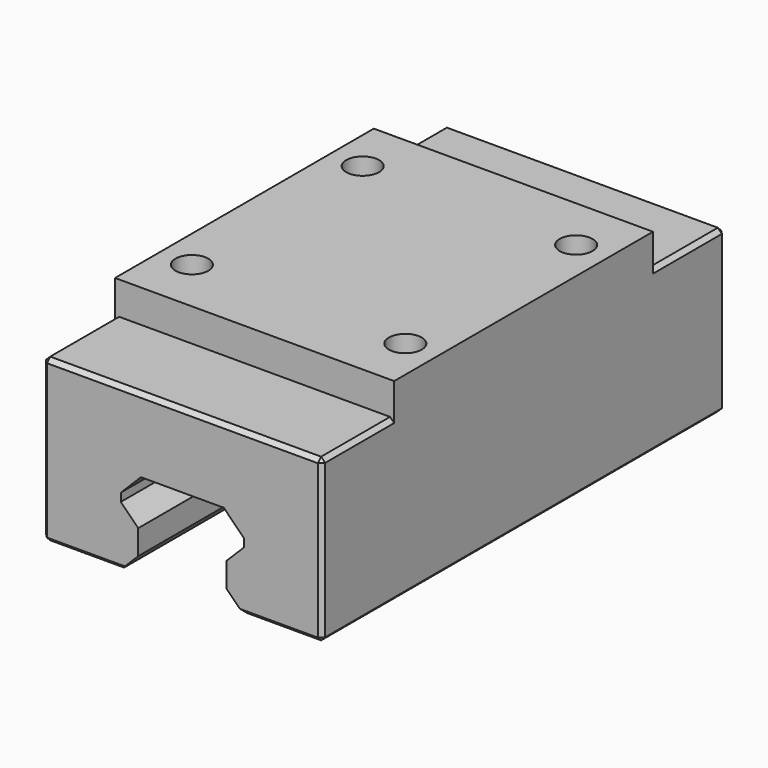
from build123d import *

# Parameters (mm, degrees)
F1_DEPTH = 30.7
F2_R     = 2
F3_DEPTH = 6
F2_W     = 34
F2_H     = 11
F4_DEPTH = 4
F5_SIZE  = 0.5


with BuildPart() as f1:
    # F0 (on Front) → F1 (new body, symmetric)
    with BuildSketch(Plane.XZ):
        Polygon((-17, 0), (-7.5, 0), (-5.3786796564, 2.1213203436), (-5.3786796564, 5.1213203436), (-7.5, 7.2426406871), (-7.5, 8.2426406871), (-5.0426406871, 10.7), (5.0426406871, 10.7), (7.5, 8.2426406871), (7.5, 7.2426406871), (5.3786796564, 5.1213203436), (5.3786796564, 2.1213203436), (7.5, 0), (17, 0), (17, 23.7), (-17, 23.7), align=None)
    extrude(amount=F1_DEPTH, both=True)

    # F2 (on face) → F3 (cut)
    with BuildSketch(Plane.XY.offset(23.7)):
        with Locations((-13, 13)):
            Circle(F2_R)
        with Locations((13, 13)):
            Circle(F2_R)
        with Locations((13, -13)):
            Circle(F2_R)
        with Locations((-13, -13)):
            Circle(F2_R)
    extrude(amount=-F3_DEPTH, mode=Mode.SUBTRACT)

    # F2 (on face) → F4 (cut)
    with BuildSketch(Plane.XY.offset(23.7)):
        with Locations((0, 25.2)):
            Rectangle(F2_W, F2_H)
        with Locations((0, -25.2)):
            Rectangle(F2_W, F2_H)
    extrude(amount=-F4_DEPTH, mode=Mode.SUBTRACT)

    # F5
    f5_edges = [f1.edges().sort_by_distance(p)[0] for p in [
        (17, 0, 0),
        (-17, 0, 0),
        (0, -30.7, 19.7),
        (-17, -25.2, 19.7),
        (17, -30.7, 9.85),
        (-17, -30.7, 9.85),
        (0, 30.7, 19.7),
        (17, 30.7, 9.85),
        (-17, 30.7, 9.85),
        (12.25, 30.7, 0),
        (-12.25, 30.7, 0),
        (-12.25, -30.7, 0),
        (12.25, -30.7, 0),
        (17, -25.2, 19.7),
        (-17, 25.2, 19.7),
        (17, 25.2, 19.7),
    ]]
    chamfer(f5_edges, length=F5_SIZE)


solid = f1.part
